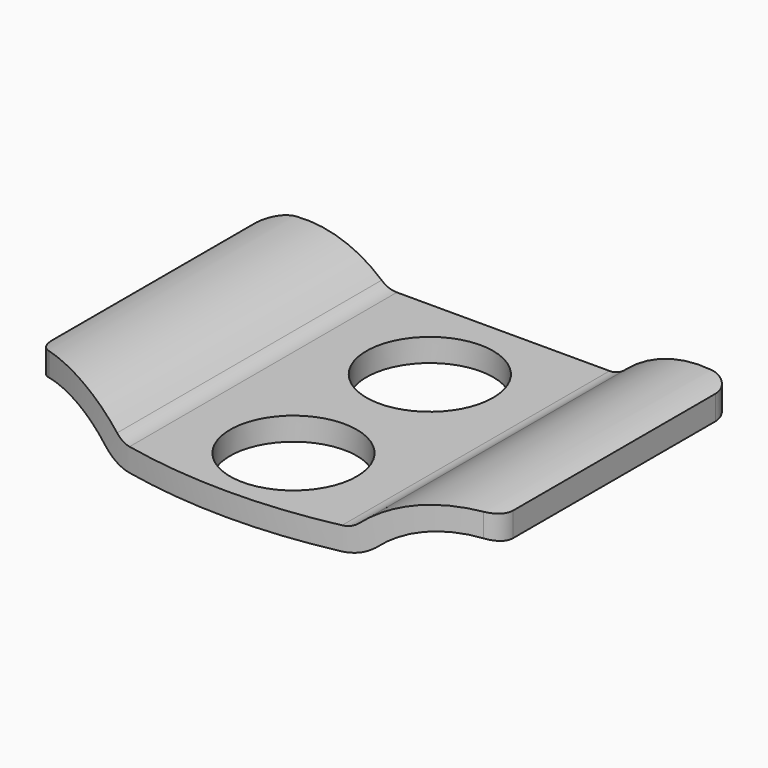
from build123d import *

# Parameters (mm, degrees)
PAD003_DEPTH    = 7.5
SKETCH037_W     = 13.73571
SKETCH037_H     = 11.046402
SKETCH037_R     = 1.375
POCKET020_DEPTH = 8
FILLET001_R     = 0.5


with BuildPart() as part:
    # Sketch036 (on DatumPlane) → Pad003 (new body)
    with BuildSketch(Plane.XZ.offset(11)):
        with BuildLine():
            ThreePointArc((-2.977124, 6), (-4.362654, 6.499018), (-5.714214, 5.914214))
            Line((-6.067767, 6.267767), (-5.714214, 5.914214))
            ThreePointArc((-2.646405, 6.375), (-4.378317, 6.998773), (-6.067767, 6.267767))
            ThreePointArc((-2.646405, 6.375), (-2.492463, 6.282293), (-2.315687, 6.25))
            Line((-2.315687, 6.25), (2.300007, 6.25))
            ThreePointArc((2.300007, 6.25), (2.47678, 6.282294), (2.630719, 6.375))
            ThreePointArc((6.05208, 6.267767), (4.362631, 6.998773), (2.630719, 6.375))
            Line((6.05208, 6.267767), (5.698527, 5.914214))
            ThreePointArc((5.698527, 5.914214), (4.346967, 6.499018), (2.961438, 6))
            ThreePointArc((2.3, 5.75), (2.653553, 5.814586), (2.961438, 6))
            Line((2.3, 5.75), (0, 5.75))
            Line((-2.315687, 5.75), (0, 5.75))
            ThreePointArc((-2.977124, 6), (-2.66924, 5.814586), (-2.315687, 5.75))
        make_face()
    extrude(amount=-PAD003_DEPTH)

    # Sketch037 → Pocket020 (cut)
    with BuildSketch(Plane.XY):
        with Locations((-0.219563, -6.661829)):
            Rectangle(SKETCH037_W, SKETCH037_H)
        with BuildLine():
            ThreePointArc((-4.714286, -9.938587), (0, -11), (4.714286, -9.938587))
            ThreePointArc((4.714286, -9.938587), (4.922577, -9.754094), (5, -9.486833))
            Line((5, -9.486833), (5, -3))
            ThreePointArc((5, -3), (4.853553, -2.646447), (4.5, -2.5))
            Line((4.5, -2.5), (-4.5, -2.5))
            ThreePointArc((-4.5, -2.5), (-4.853553, -2.646447), (-5, -3))
            Line((-5, -3), (-5, -9.486833))
            ThreePointArc((-5, -9.486833), (-4.922577, -9.754094), (-4.714286, -9.938587))
        make_face(mode=Mode.SUBTRACT)
        with Locations((0, -5.5)):
            Circle(SKETCH037_R)
        with Locations((0, -9.2)):
            Circle(SKETCH037_R)
    extrude(amount=POCKET020_DEPTH, mode=Mode.SUBTRACT)

    # Fillet001
    fillet001_edges = [part.edges().sort_by_distance(p)[0] for p in [
        (-5, -3.5, 6.63675),
        (5, -3.5, 6.631466),
    ]]
    fillet(fillet001_edges, radius=FILLET001_R)


solid = part.part
